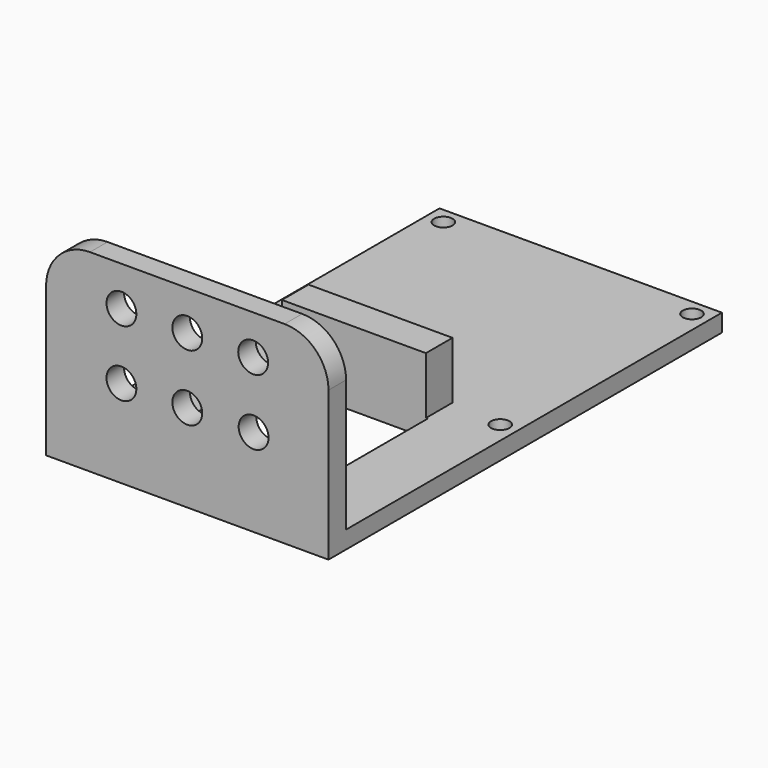
from build123d import *

# Parameters (mm, degrees)
F0_W      = 32.16
F0_H      = 31
F1_DEPTH  = 2
F3_D      = 2.1
F3_DEPTH  = 5
F3_TIP    = 0.63090365
F4_W      = 16.8
F4_H      = 2.5
F5_DEPTH  = 6.5
F6_DEPTH  = 25
F7_W      = 16.8
F7_H      = 23.7160715014
F8_DEPTH  = 25
F9_W      = 6.8209058344
F9_H      = 2
F10_DEPTH = 18
F11_W     = 32.16
F11_H     = 2.5
F12_DEPTH = 22
F14_D     = 3.4
F14_DEPTH = 5
F14_TIP   = 1.0214630523
F15_DEPTH = 0.2
F16_DEPTH = 0.2
F17_R     = 5


with BuildPart() as f1:
    # F0 (on Top) → F1 (new body)
    with BuildSketch(Plane.XY):
        Rectangle(F0_W, F0_H)
    extrude(amount=F1_DEPTH)

    # F3
    with Locations(Plane.XY.offset(2)):
        with Locations((-14.1555870968, 13.645), (14.1555870968, 13.645), (-14.1555870968, -13.645), (14.1555870968, -13.645)):
            Hole(F3_D / 2, depth=F3_DEPTH)
            with Locations((0, 0, -(F3_DEPTH + F3_TIP / 2))):  # 118° drill point
                Cone(0, F3_D / 2, F3_TIP, mode=Mode.SUBTRACT)

    # F4 (on face) → F5 (join)
    with BuildSketch(Plane.XY.offset(2)):
        with Locations((0, -14.25)):
            Rectangle(F4_W, F4_H)
    extrude(amount=F5_DEPTH)

    # F6 (add): a face of the model
    f6_faces = [f1.faces().sort_by_distance(p)[0] for p in [
        (0, -15.5, 3.6746196404),
    ]]
    extrude(f6_faces, amount=F6_DEPTH)

    # F7 (on face) → F8 (cut)
    with BuildSketch(Plane.XY.offset(8.5)):
        with Locations((0, -28.6419642493)):
            Rectangle(F7_W, F7_H)
    extrude(amount=-F8_DEPTH, mode=Mode.SUBTRACT)

    # F9 (on face) → F10 (join)
    with BuildSketch(Plane(origin=(8.4, 0, 0), x_dir=(0, -1, 0), z_dir=(-1, 0, 0))):
        with Locations((37.0895470828, 1)):
            Rectangle(F9_W, F9_H)
    extrude(amount=F10_DEPTH)

    # F11 (on face) → F12 (join)
    with BuildSketch(Plane(origin=(0, 0, 0), x_dir=(1, 0, 0), z_dir=(0, 0, -1))):
        with Locations((0, 39.25)):
            Rectangle(F11_W, F11_H)
    extrude(amount=-F12_DEPTH)

    # F14
    with Locations(Plane.XZ.offset(40.5)):
        with Locations((-7.5, 17.5), (-7.5, 10), (0, 10), (0, 17.5), (7.5, 17.5), (7.5482047356, 10)):
            Hole(F14_D / 2, depth=F14_DEPTH)
            with Locations((0, 0, -(F14_DEPTH + F14_TIP / 2))):  # 118° drill point
                Cone(0, F14_D / 2, F14_TIP, mode=Mode.SUBTRACT)

    # F15 (cut): a face of the model
    f15_faces = [f1.faces().sort_by_distance(p)[0] for p in [
        (8.4, -14.8919642493, 5.25),
    ]]
    extrude(f15_faces, amount=-F15_DEPTH, mode=Mode.SUBTRACT)

    # F16 (cut): a face of the model
    f16_faces = [f1.faces().sort_by_distance(p)[0] for p in [
        (-8.4, -14.8919642493, 5.25),
    ]]
    extrude(f16_faces, amount=-F16_DEPTH, mode=Mode.SUBTRACT)

    # F17
    f17_edges = [f1.edges().sort_by_distance(p)[0] for p in [
        (-16.08, -39.25, 22),
        (16.08, -39.25, 22),
    ]]
    fillet(f17_edges, radius=F17_R)


solid = f1.part
